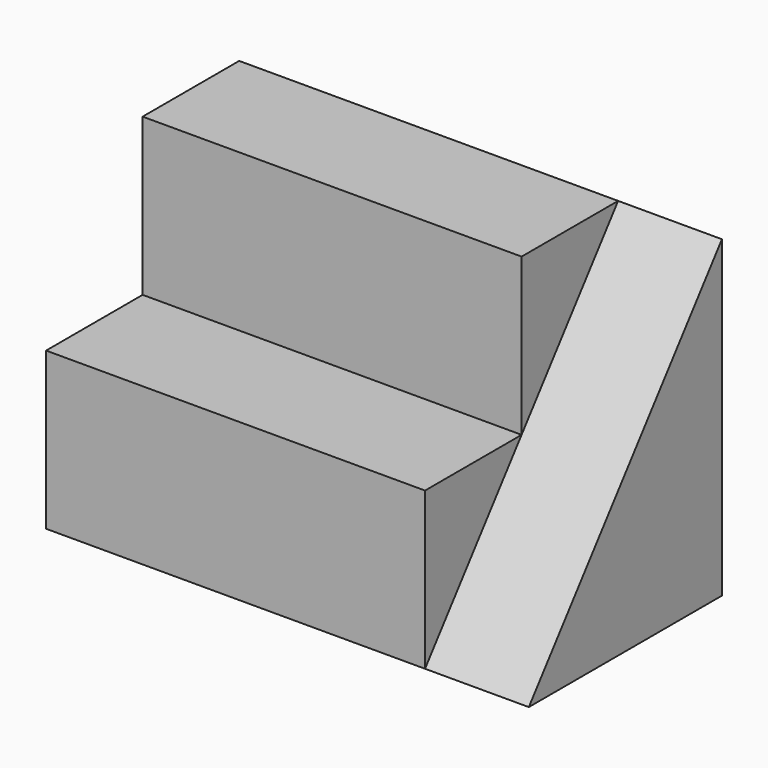
from build123d import *

# Parameters (mm, degrees)
F0_W     = 20
F0_H     = 10
F1_DEPTH = 13
F3_DEPTH = 4.3
F4_W     = 5
F4_H     = 6.5
F5_DEPTH = 15.8


with BuildPart() as f1:
    # F0 (on Top) → F1 (new body)
    with BuildSketch(Plane.XY):
        with Locations((10, 5)):
            Rectangle(F0_W, F0_H)
    extrude(amount=F1_DEPTH)

    # F2 (on face) → F3 (cut)
    with BuildSketch(Plane.YZ.offset(20)):
        Polygon((0, 13), (0, 0), (10, 13), align=None)
    extrude(amount=-F3_DEPTH, mode=Mode.SUBTRACT)

    # F4 (on face) → F5 (cut)
    with BuildSketch(Plane(origin=(0, 0, 0), x_dir=(0, -1, 0), z_dir=(-1, 0, 0))):
        with Locations((-2.5, 9.75)):
            Rectangle(F4_W, F4_H)
    extrude(amount=-F5_DEPTH, mode=Mode.SUBTRACT)


solid = f1.part
